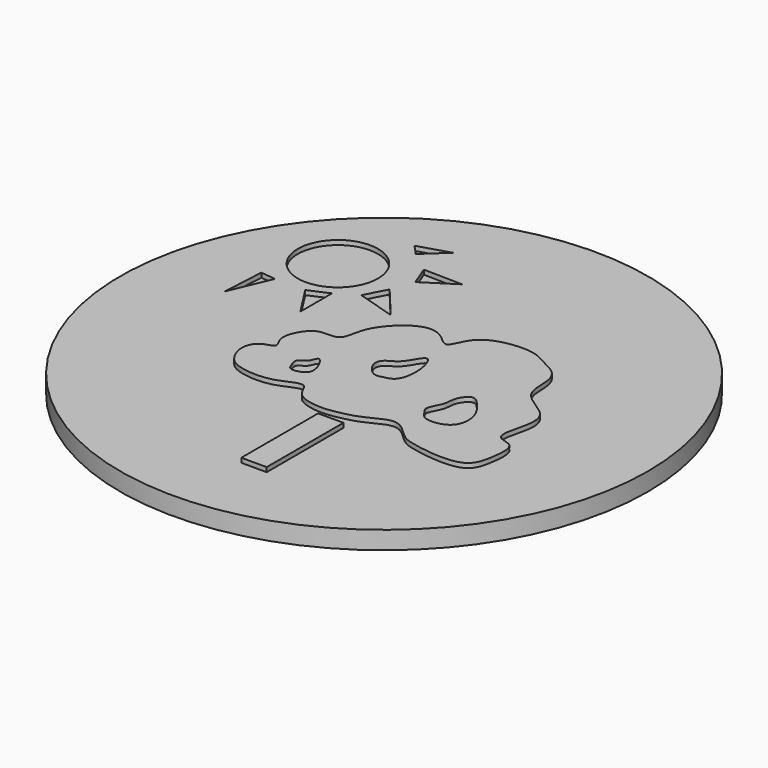
from build123d import *

# Parameters (mm, degrees)
F0_R      = 58.7230899661
F1_DEPTH  = 4
F3_DEPTH  = 1
F4_W      = 5.6459326297
F4_H      = 21.3486850262
F5_DEPTH  = 1
F6_R      = 8.9287488316
F7_DEPTH  = 1
F9_DEPTH  = 1
F11_DEPTH = 1


with BuildPart() as f1:
    # F0 (on Top) → F1 (new body)
    with BuildSketch(Plane.XY):
        Circle(F0_R)
    extrude(amount=F1_DEPTH)

    # F2 (on face) → F3 (join)
    with BuildSketch(Plane.XY.offset(4)):
        with BuildLine():
            add(Edge.make_bspline(
                [(-7.0797624066, -13.6069757864), (-8.1237919042, -13.1612297991), (-12.4752413526, -16.1381829323), (-19.6344842789, -15.5358231757), (-22.8496611219, -13.821082529), (-24.8899871678, -9.2114665666), (-22.9632243504, -5.6045975053), (-19.1184211627, -5.3683674503), (-21.8317476219, -2.3769989433), (-20.1770255267, 1.9384633445), (-17.6516591472, 4.4660249411), (-12.2692246409, 3.3069707491), (-12.7711128773, 10.2065758547), (-5.2070478337, 17.5909120343), (-0.0535496765, 16.3213421034), (3.3709105709, 12.1659008994), (4.6556481422, 20.3930406124), (15.9899725805, 21.7172343382), (19.6592766333, 19.4132671881), (24.0396358538, 17.4252401027), (25.3908757582, 13.7657414676), (24.7223620434, 7.4169241227), (32.9476623006, 4.359217623), (32.8386327421, -1.3561803472), (30.4316173049, -8.3435581045), (36.0945698344, -7.9760349957), (35.5488389604, -14.4025464856), (34.0823663613, -20.877809937), (21.3193272574, -19.1339705391), (18.4154467603, -17.7347424376), (14.353460754, -12.9752717979), (8.6718725682, -16.8182142149), (3.8642270119, -17.880205375), (0.150281386, -18.4806208225), (-5.7807431955, -17.3198898619), (-6.2577452786, -13.9579341043), (-7.0797624066, -13.6069757864)],
                knots=[0, 0, 0, 0, 0.0310282295, 0.0665284999, 0.0911507077, 0.1192199767, 0.1443782645, 0.1653569413, 0.1867334989, 0.2143092637, 0.2386087119, 0.2647334159, 0.2954403945, 0.336615007, 0.3656467604, 0.3896607393, 0.4205616681, 0.4626843472, 0.4907536128, 0.5183068163, 0.5434799289, 0.5746339055, 0.610234063, 0.6407350275, 0.6726496948, 0.6966813331, 0.7271238591, 0.7583711602, 0.8023797338, 0.8278008876, 0.8571474467, 0.8893982882, 0.9188193224, 0.9448030461, 0.9755699085, 1, 1, 1, 1], degree=3))
        make_face()
        with BuildLine():
            add(Edge.make_bspline(
                [(-7.0797624066, -13.6069757864), (-8.1237919042, -13.1612297991), (-12.4752413526, -16.1381829323), (-19.6344842789, -15.5358231757), (-22.8496611219, -13.821082529), (-24.8899871678, -9.2114665666), (-22.9632243504, -5.6045975053), (-19.1184211627, -5.3683674503), (-21.8317476219, -2.3769989433), (-20.1770255267, 1.9384633445), (-17.6516591472, 4.4660249411), (-12.2692246409, 3.3069707491), (-12.7711128773, 10.2065758547), (-5.2070478337, 17.5909120343), (-0.0535496765, 16.3213421034), (3.3709105709, 12.1659008994), (4.6556481422, 20.3930406124), (15.9899725805, 21.7172343382), (19.6592766333, 19.4132671881), (24.0396358538, 17.4252401027), (25.3908757582, 13.7657414676), (24.7223620434, 7.4169241227), (32.9476623006, 4.359217623), (32.8386327421, -1.3561803472), (30.4316173049, -8.3435581045), (36.0945698344, -7.9760349957), (35.5488389604, -14.4025464856), (34.0823663613, -20.877809937), (21.3193272574, -19.1339705391), (18.4154467603, -17.7347424376), (14.353460754, -12.9752717979), (8.6718725682, -16.8182142149), (3.8642270119, -17.880205375), (0.150281386, -18.4806208225), (-5.7807431955, -17.3198898619), (-6.2577452786, -13.9579341043), (-7.0797624066, -13.6069757864)],
                knots=[0, 0, 0, 0, 0.0310282295, 0.0665284999, 0.0911507077, 0.1192199767, 0.1443782645, 0.1653569413, 0.1867334989, 0.2143092637, 0.2386087119, 0.2647334159, 0.2954403945, 0.336615007, 0.3656467604, 0.3896607393, 0.4205616681, 0.4626843472, 0.4907536128, 0.5183068163, 0.5434799289, 0.5746339055, 0.610234063, 0.6407350275, 0.6726496948, 0.6966813331, 0.7271238591, 0.7583711602, 0.8023797338, 0.8278008876, 0.8571474467, 0.8893982882, 0.9188193224, 0.9448030461, 0.9755699085, 1, 1, 1, 1], degree=3))
        make_face()
    extrude(amount=F3_DEPTH)

    # F4 (on face) → F5 (join)
    with BuildSketch(Plane.XY.offset(4)):
        with Locations((4.3885414489, -30.985865742)):
            Rectangle(F4_W, F4_H)
    extrude(amount=F5_DEPTH)

    # F6 (on face) → F7 (cut)
    with BuildSketch(Plane.XY.offset(4)):
        with Locations((-32.1335941553, 27.3260436952)):
            Circle(F6_R)
    extrude(amount=-F7_DEPTH, mode=Mode.SUBTRACT)

    # F8 (on face) → F9 (cut)
    with BuildSketch(Plane.XY.offset(4)):
        Polygon((-19.0773736686, 43.0152244403), (-25.9583536536, 40.9115739167), (-23.8411277533, 38.6179126799), align=None)
        Polygon((-10.4320347309, 34.7363315523), (-19.0773736686, 34.9127687514), (-17.3130165786, 30.3254462779), align=None)
        Polygon((-19.0773736686, 25.385254994), (-21.5474683791, 20.621497184), (-12.9021322355, 17.974967137), align=None)
        Polygon((-25.9583536536, 17.974967137), (-30.369238928, 16.0341765732), (-25.9583536536, 9.1531947255), align=None)
        Polygon((-37.0737873018, 16.0341765732), (-40.4260605574, 16.3870472461), (-40.9553647041, 6.8595339544), align=None)
    extrude(amount=-F9_DEPTH, mode=Mode.SUBTRACT)

    # F10 (on face) → F11 (cut)
    with BuildSketch(Plane.XY.offset(5)):
        with BuildLine():
            add(Edge.make_bspline(
                [(3.9392304607, -1.725016511), (3.3389278599, -2.3311137593), (1.7960793796, -2.5098405038), (-0.1143999822, -3.2740740829), (-2.9351981666, -0.1253071656), (-2.3429019607, 2.4171730428), (0.251688615, 3.3535211095), (1.7382669289, 5.5096435842), (3.6402437679, 9.0890322129), (5.6475828773, 3.2511384682), (4.8568020297, -0.7985877359), (3.9392304607, -1.725016511)],
                knots=[0, 0, 0, 0, 0.0976394236, 0.1846769946, 0.3077685936, 0.4028476644, 0.5040944042, 0.6136849067, 0.715139099, 0.85075667, 1, 1, 1, 1], degree=3))
        make_face()
        with BuildLine():
            add(Edge.make_bspline(
                [(-10.9070558101, -10.0838495418), (-11.6399469387, -10.2977150749), (-12.9554178997, -10.3349526533), (-13.3592529485, -9.1095793979), (-14.3827449096, -6.8805289805), (-11.80284879, -6.3079164171), (-11.4154720518, -2.6255947939), (-8.0632612505, -8.6403755559), (-10.0498906647, -9.8337195108), (-10.9070558101, -10.0838495418)],
                knots=[0, 0, 0, 0, 0.1317325817, 0.2362034259, 0.369234049, 0.5095952384, 0.6424834886, 0.8459299436, 1, 1, 1, 1], degree=3))
        make_face()
        with BuildLine():
            add(Edge.make_bspline(
                [(17.2884091735, -10.0838495418), (16.5584759392, -9.7844349271), (16.0504329988, -8.690712767), (14.3741960954, -7.0959018407), (16.7776115076, -3.9354963721), (16.3164645284, -1.1926472216), (18.6180305915, 1.9235923572), (20.9137585384, -0.0864269955), (24.1550892799, -4.3176495993), (23.1685197368, -10.2232669426), (18.4509318078, -10.560709959), (17.2884091735, -10.0838495418)],
                knots=[0, 0, 0, 0, 0.0856639557, 0.1691201078, 0.2818213634, 0.3867619231, 0.4918944954, 0.5851685755, 0.7274215706, 0.86356795, 1, 1, 1, 1], degree=3))
        make_face()
    extrude(amount=-F11_DEPTH, mode=Mode.SUBTRACT)


solid = f1.part
